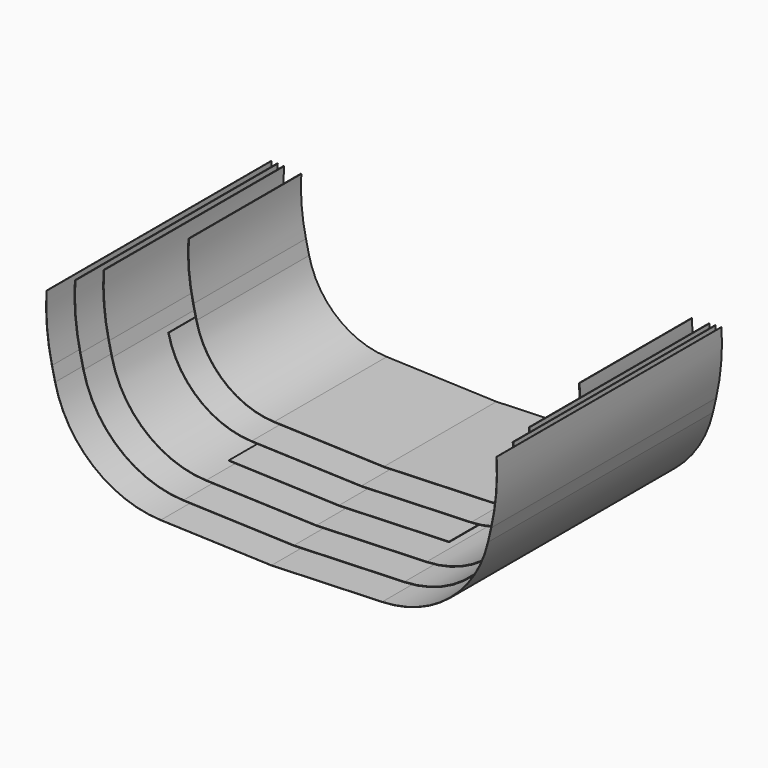
from build123d import *

# Parameters (mm, degrees)
F1_DEPTH  = 500
F3_DEPTH  = 450
F5_DEPTH  = 400
F7_DEPTH  = 350
F9_DEPTH  = 300
F11_DEPTH = 250


with BuildPart() as f1:
    # F0 (on Front) → F1 (new body)
    with BuildSketch(Plane.XZ):
        with BuildLine():
            Line((196.944483, 6.877453), (0, 0))
            Line((0, 0), (-196.944483, 6.877453))
            ThreePointArc((-196.944483, 6.877453), (-317.180227, 52.430702), (-384.838596, 161.765407))
            Line((-384.838596, 161.765407), (-390.462373, 186.124659))
            ThreePointArc((-390.462373, 186.124659), (-399.318706, 242.719979), (-400, 300))
            Line((-400, 300), (-400.499107, 300.029869))
            ThreePointArc((-400.499107, 300.029869), (-399.816961, 242.678248), (-390.949558, 186.012184))
            Line((-390.949558, 186.012184), (-385.325781, 161.652932))
            ThreePointArc((-385.325781, 161.652932), (-317.498267, 52.044889), (-196.961933, 6.377757))
            Line((-196.961933, 6.377757), (0, -0.500305))
            Line((0, -0.500305), (196.961933, 6.377757))
            ThreePointArc((196.961933, 6.377757), (317.498267, 52.044889), (385.325781, 161.652932))
            Line((385.325781, 161.652932), (390.949558, 186.012184))
            ThreePointArc((390.949558, 186.012184), (399.816961, 242.678248), (400.499107, 300.029869))
            Line((400.499107, 300.029869), (400, 300))
            ThreePointArc((400, 300), (399.318706, 242.719979), (390.462373, 186.124659))
            Line((390.462373, 186.124659), (384.838596, 161.765407))
            ThreePointArc((384.838596, 161.765407), (317.180227, 52.430702), (196.944483, 6.877453))
        make_face()
    extrude(amount=F1_DEPTH)


with BuildPart() as f3:
    # F2 (on Front) → F3 (new body)
    with BuildSketch(Plane.XZ):
        with BuildLine():
            ThreePointArc((-390.017859, 299.402627), (-389.353597, 243.554607), (-380.718672, 188.37417))
            Line((-380.718672, 188.37417), (-375.094896, 164.014918))
            ThreePointArc((-375.094896, 164.014918), (-310.819445, 60.146947), (-196.595488, 16.871361))
            Line((-196.595488, 16.871361), (0, 10.006095))
            Line((0, 10.006095), (196.595488, 16.871361))
            ThreePointArc((196.595488, 16.871361), (310.819445, 60.146947), (375.094896, 164.014918))
            Line((375.094896, 164.014918), (380.718672, 188.37417))
            ThreePointArc((380.718672, 188.37417), (389.353597, 243.554607), (390.017859, 299.402627))
            Line((390.017859, 299.402627), (389.019645, 299.34289))
            ThreePointArc((389.019645, 299.34289), (388.357086, 243.63807), (379.744302, 188.599121))
            Line((379.744302, 188.599121), (374.120526, 164.239869))
            ThreePointArc((374.120526, 164.239869), (310.183367, 60.918572), (196.560588, 17.870752))
            Line((196.560588, 17.870752), (0, 11.006705))
            Line((0, 11.006705), (-196.560588, 17.870752))
            ThreePointArc((-196.560588, 17.870752), (-310.183367, 60.918572), (-374.120526, 164.239869))
            Line((-374.120526, 164.239869), (-379.744302, 188.599121))
            ThreePointArc((-379.744302, 188.599121), (-388.357086, 243.63807), (-389.019645, 299.34289))
            Line((-389.019645, 299.34289), (-390.017859, 299.402627))
        make_face()
    extrude(amount=F3_DEPTH)


with BuildPart() as f5:
    # F4 (on Front) → F5 (new body)
    with BuildSketch(Plane.XZ):
        with BuildLine():
            ThreePointArc((-379.037503, 298.745517), (-378.391977, 244.472697), (-370.000601, 190.848631))
            Line((-370.000601, 190.848631), (-364.376825, 166.48938))
            ThreePointArc((-364.376825, 166.48938), (-303.822585, 68.634818), (-196.211593, 27.86466))
            Line((-196.211593, 27.86466), (0, 21.0128))
            Line((0, 21.0128), (196.211593, 27.86466))
            ThreePointArc((196.211593, 27.86466), (303.822585, 68.634818), (364.376825, 166.48938))
            Line((364.376825, 166.48938), (370.000601, 190.848631))
            ThreePointArc((370.000601, 190.848631), (378.391977, 244.472697), (379.037503, 298.745517))
            Line((379.037503, 298.745517), (378.039289, 298.685779))
            ThreePointArc((378.039289, 298.685779), (377.395466, 244.55616), (369.026231, 191.073582))
            Line((369.026231, 191.073582), (363.402455, 166.714331))
            ThreePointArc((363.402455, 166.714331), (303.186507, 69.406442), (196.176694, 28.864051))
            Line((196.176694, 28.864051), (0, 22.01341))
            Line((0, 22.01341), (-196.176694, 28.864051))
            ThreePointArc((-196.176694, 28.864051), (-303.186507, 69.406442), (-363.402455, 166.714331))
            Line((-363.402455, 166.714331), (-369.026231, 191.073582))
            ThreePointArc((-369.026231, 191.073582), (-377.395466, 244.55616), (-378.039289, 298.685779))
            Line((-378.039289, 298.685779), (-379.037503, 298.745517))
        make_face()
    extrude(amount=F5_DEPTH)


with BuildPart() as f7:
    # F6 (on Front) → F7 (new body)
    with BuildSketch(Plane.XZ):
        Polygon((-195.827699, 38.857959), (0, 32.019505), (195.827699, 38.857959), (195.792799, 39.85735), (0, 33.020115), (-195.792799, 39.85735), align=None)
    extrude(amount=F7_DEPTH)


with BuildPart() as f9:
    # F8 (on Front) → F9 (new body)
    with BuildSketch(Plane.XZ):
        with BuildLine():
            ThreePointArc((-343.915054, 171.213352), (-290.464942, 84.838934), (-195.478704, 48.851868))
            Line((-195.478704, 48.851868), (0, 42.025601))
            Line((0, 42.025601), (195.478704, 48.851868))
            ThreePointArc((195.478704, 48.851868), (290.464942, 84.838934), (343.915054, 171.213352))
            Line((343.915054, 171.213352), (342.940684, 171.438303))
            ThreePointArc((342.940684, 171.438303), (289.828864, 85.610559), (195.443804, 49.851258))
            Line((195.443804, 49.851258), (0, 43.02621))
            Line((0, 43.02621), (-195.443804, 49.851258))
            ThreePointArc((-195.443804, 49.851258), (-289.828864, 85.610559), (-342.940684, 171.438303))
            Line((-342.940684, 171.438303), (-343.915054, 171.213352))
        make_face()
    extrude(amount=F9_DEPTH)


with BuildPart() as f11:
    # F10 (on Front) → F11 (new body)
    with BuildSketch(Plane.XZ):
        with BuildLine():
            ThreePointArc((-348.092865, 296.893661), (-347.500139, 247.060043), (-339.795129, 197.822114))
            Line((-339.795129, 197.822114), (-334.171353, 173.462862))
            ThreePointArc((-334.171353, 173.462862), (-284.10416, 92.55518), (-195.129709, 58.845776))
            Line((-195.129709, 58.845776), (0, 52.031696))
            Line((0, 52.031696), (195.129709, 58.845776))
            ThreePointArc((195.129709, 58.845776), (284.10416, 92.55518), (334.171353, 173.462862))
            Line((334.171353, 173.462862), (339.795129, 197.822114))
            ThreePointArc((339.795129, 197.822114), (347.500139, 247.060043), (348.092865, 296.893661))
            Line((348.092865, 296.893661), (347.094651, 296.833923))
            ThreePointArc((347.094651, 296.833923), (346.503628, 247.143505), (338.820759, 198.047065))
            Line((338.820759, 198.047065), (333.196983, 173.687813))
            ThreePointArc((333.196983, 173.687813), (283.468082, 93.326805), (195.094809, 59.845167))
            Line((195.094809, 59.845167), (0, 53.032306))
            Line((0, 53.032306), (-195.094809, 59.845167))
            ThreePointArc((-195.094809, 59.845167), (-283.468082, 93.326805), (-333.196983, 173.687813))
            Line((-333.196983, 173.687813), (-338.820759, 198.047065))
            ThreePointArc((-338.820759, 198.047065), (-346.503628, 247.143505), (-347.094651, 296.833923))
            Line((-347.094651, 296.833923), (-348.092865, 296.893661))
        make_face()
    extrude(amount=F11_DEPTH)


solid = Compound([f1.part, f3.part, f5.part, f7.part, f9.part, f11.part])
